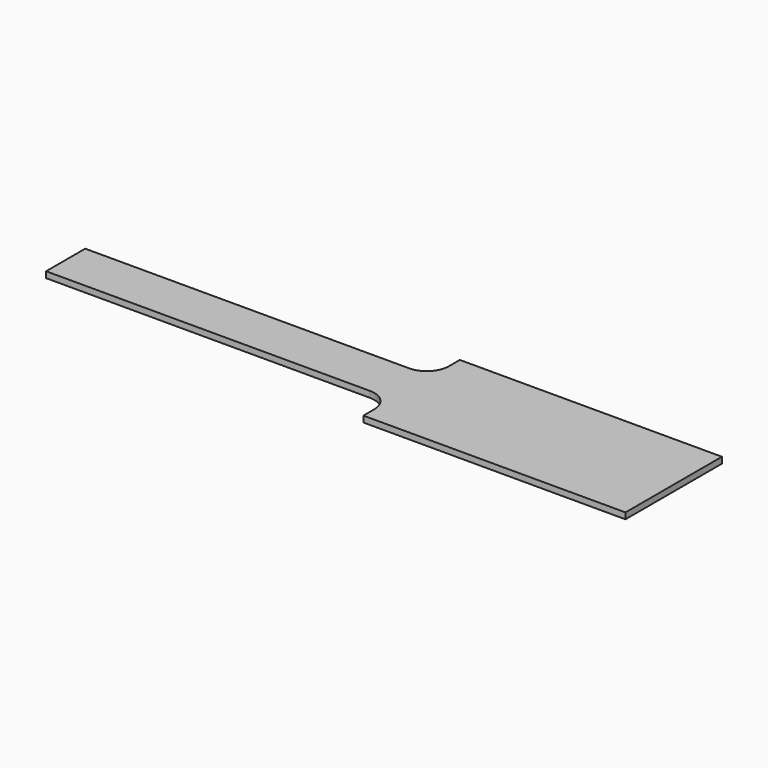
from build123d import *

# Parameters (mm, degrees)
F1_DEPTH = 1.75


with BuildPart() as f1:
    # F0 (on Top) → F1 (new body)
    with BuildSketch(Plane.XY):
        with BuildLine():
            Line((99, 3.9), (99, 0))
            Line((99, 0), (174, 0))
            Line((174, 0), (174, 34.5))
            Line((174, 34.5), (99, 34.5))
            Line((99, 34.5), (99, 30.6))
            ThreePointArc((99, 30.6), (97.1401280605, 26.1098719395), (92.65, 24.25))
            Line((92.65, 24.25), (0, 24.25))
            Line((0, 24.25), (0, 10.25))
            Line((0, 10.25), (92.65, 10.25))
            ThreePointArc((92.65, 10.25), (97.1401280605, 8.3901280605), (99, 3.9))
        make_face()
    extrude(amount=F1_DEPTH)


solid = f1.part
